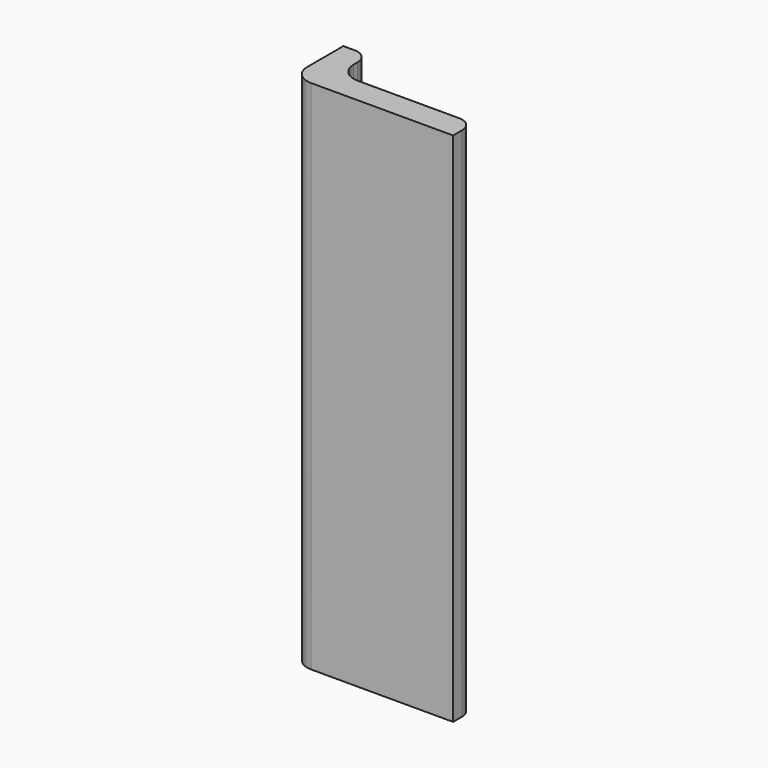
from build123d import *

# Parameters (mm, degrees)
PAD_DEPTH   = 160
FILLET_R    = 6
FILLET001_R = 4.5
FILLET002_R = 6


with BuildPart() as part:
    # Sketch → Pad (new body)
    with BuildSketch(Plane.XY):
        Polygon((0, 0), (50, 0), (50, 8), (8, 8), (8, 20), (0, 20), align=None)
    extrude(amount=PAD_DEPTH)

    # Fillet
    fillet_edges = [part.edges().sort_by_distance(p)[0] for p in [
        (0, 0, 80),
    ]]
    fillet(fillet_edges, radius=FILLET_R)

    # Fillet001
    fillet001_edges = [part.edges().sort_by_distance(p)[0] for p in [
        (50, 8, 80),
        (8, 20, 80),
    ]]
    fillet(fillet001_edges, radius=FILLET001_R)

    # Fillet002
    fillet002_edges = [part.edges().sort_by_distance(p)[0] for p in [
        (8, 8, 80),
    ]]
    fillet(fillet002_edges, radius=FILLET002_R)


solid = part.part
